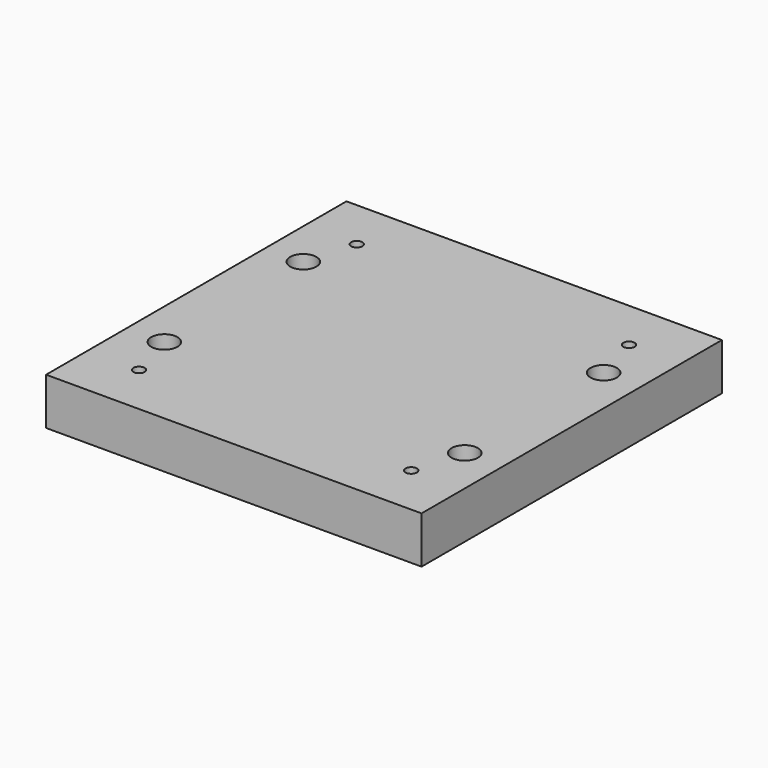
from build123d import *

# Parameters (mm, degrees)
F0_W           = 400
F0_H           = 400
F1_DEPTH       = 50
F2_R           = 6
F3_DEPTH       = 35
F5_D           = 17
F5_DEPTH       = 53
F5_CBORE_D     = 28
F5_CBORE_DEPTH = 20


with BuildPart() as f1:
    # F0 (on Top) → F1 (new body)
    with BuildSketch(Plane.XY):
        Rectangle(F0_W, F0_H)
    extrude(amount=-F1_DEPTH)

    # F2 (on face) → F3 (cut)
    with BuildSketch(Plane.XY):
        with Locations((145, 145)):
            Circle(F2_R)
        with Locations((145, -145)):
            Circle(F2_R)
        with Locations((-145, 145)):
            Circle(F2_R)
        with Locations((-145, -145)):
            Circle(F2_R)
    extrude(amount=-F3_DEPTH, mode=Mode.SUBTRACT)

    # F5
    with Locations(Plane.XY):
        with Locations((160, 92.5), (160, -92.5), (-160, -92.5), (-160, 92.5)):
            CounterBoreHole(F5_D / 2, F5_CBORE_D / 2, F5_CBORE_DEPTH, depth=F5_DEPTH)


solid = f1.part
